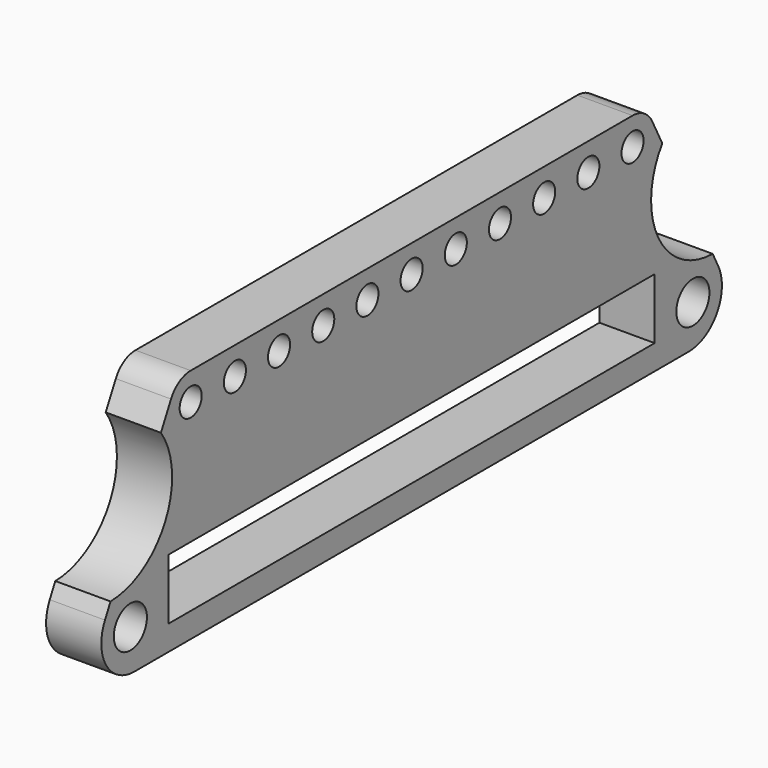
from build123d import *

# Parameters (mm, degrees)
F0_R     = 4.7625
F0_W     = 139.7
F0_H     = 13.97
F0_R_2   = 3.175
F1_DEPTH = 12.7
F3_DEPTH = 25.4
F4_R     = 3.175
F5_DEPTH = 25.4


with BuildPart() as f1:
    # F0 (on Right) → F1 (new body)
    with BuildSketch(Plane.YZ):
        with BuildLine():
            Line((-79.661611154, -12.7), (79.661611154, -12.7))
            ThreePointArc((79.661611154, -12.7), (87.7894077283, -8.1413414953), (88.1372885066, 1.1710923155))
            Line((88.1372885066, 1.1710923155), (69.1504515684, 38.1989076845))
            ThreePointArc((69.1504515684, 38.1989076845), (66.8108943302, 40.720043857), (63.5, 41.6515128075))
            Line((63.5, 41.6515128075), (-63.5, 41.6515128075))
            ThreePointArc((-63.5, 41.6515128075), (-66.8108943302, 40.720043857), (-69.1504515684, 38.1989076845))
            Line((-69.1504515684, 38.1989076845), (-88.1372885066, 1.1710923155))
            ThreePointArc((-88.1372885066, 1.1710923155), (-87.7894077283, -8.1413414953), (-79.661611154, -12.7))
        make_face()
        with Locations((-80.8408441287, -3.175)):
            Circle(F0_R, mode=Mode.SUBTRACT)
        Rectangle(F0_W, F0_H, mode=Mode.SUBTRACT)
        with Locations((80.8408441287, -3.175)):
            Circle(F0_R, mode=Mode.SUBTRACT)
        with Locations((-63.5, 35.3015128075)):
            Circle(F0_R_2, mode=Mode.SUBTRACT)
        with Locations((63.5, 35.3015128075)):
            Circle(F0_R_2, mode=Mode.SUBTRACT)
    extrude(amount=F1_DEPTH)

    # F2 (on face) → F3 (cut)
    with BuildSketch(Plane.YZ.offset(12.7)):
        with BuildLine():
            Line((-72.0478464454, 32.5484561161), (-86.5348208304, 4.2961982741))
            ThreePointArc((-86.5348208304, 4.2961982741), (-70.8156562853, 14.0762348796), (-72.0478464454, 32.5484561161))
        make_face()
        with BuildLine():
            ThreePointArc((72.0478464454, 32.5484561161), (70.8156562853, 14.0762348796), (86.5348208304, 4.2961982741))
            Line((86.5348208304, 4.2961982741), (72.0478464454, 32.5484561161))
        make_face()
    extrude(amount=-F3_DEPTH, mode=Mode.SUBTRACT)

    # F4 (on face) → F5 (cut)
    with BuildSketch(Plane.YZ.offset(12.7)):
        with Locations((-50.8, 35.3015128075)):
            Circle(F4_R)
        with Locations((-38.1, 35.3015128075)):
            Circle(F4_R)
        with Locations((-25.4, 35.3015128075)):
            Circle(F4_R)
        with Locations((-12.7, 35.3015128075)):
            Circle(F4_R)
        with Locations((0, 35.3015128075)):
            Circle(F4_R)
        with Locations((12.7, 35.3015128075)):
            Circle(F4_R)
        with Locations((25.4, 35.3015128075)):
            Circle(F4_R)
        with Locations((38.1, 35.3015128075)):
            Circle(F4_R)
        with Locations((50.8, 35.3015128075)):
            Circle(F4_R)
        with Locations((63.5, 35.3015128075)):
            Circle(F4_R)
    extrude(amount=-F5_DEPTH, mode=Mode.SUBTRACT)


solid = f1.part
